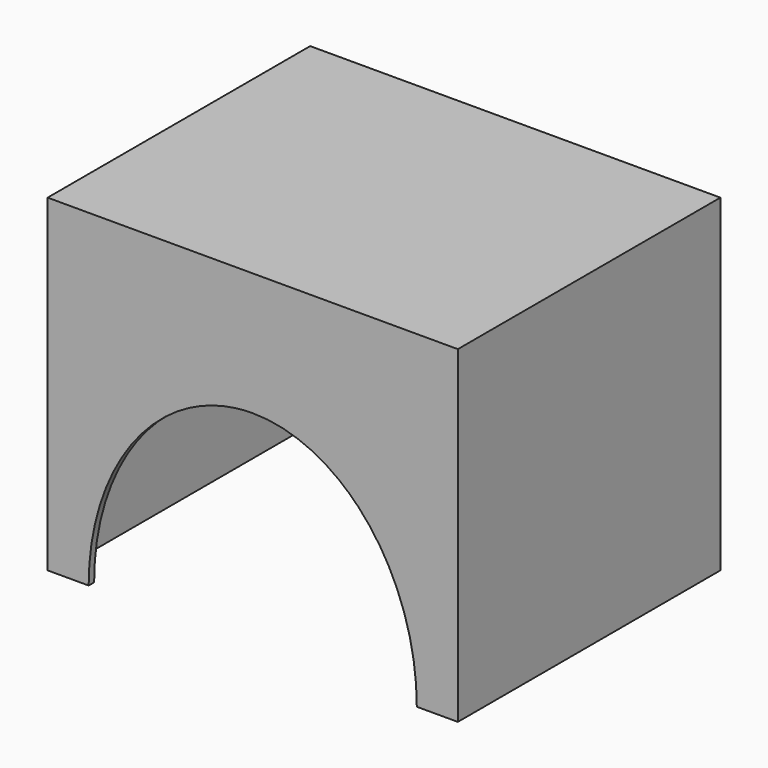
from build123d import *

# Parameters (mm, degrees)
F0_W     = 381
F0_H     = 304.8
F1_DEPTH = 304.8
F4_T     = -6.35
F5_DEPTH = 127


with BuildPart() as f1:
    # F0 (on Top) → F1 (new body)
    with BuildSketch(Plane.XY):
        Rectangle(F0_W, F0_H)
    extrude(amount=F1_DEPTH)

    # F4
    f4_openings = [f1.faces().sort_by_distance(p)[0] for p in [
        (0, 0, 0),
    ]]
    offset(amount=F4_T, openings=f4_openings)

    # F3 (on offset) → F5 (cut)
    with BuildSketch(Plane.XZ.offset(254)):
        with BuildLine():
            add(Edge.make_bspline(
                [(0, 190.5), (-263.964543, 190.5), (-131.982272, -95.25), (0, -381), (131.982272, -95.25), (263.964543, 190.5), (0, 190.5)],
                knots=[0, 0, 0, 2.094395, 2.094395, 4.18879, 4.18879, 6.283185, 6.283185, 6.283185], degree=2, weights=[1, 0.5, 1, 0.5, 1, 0.5, 1]))
        make_face()
    extrude(amount=-F5_DEPTH, mode=Mode.SUBTRACT)


solid = f1.part
